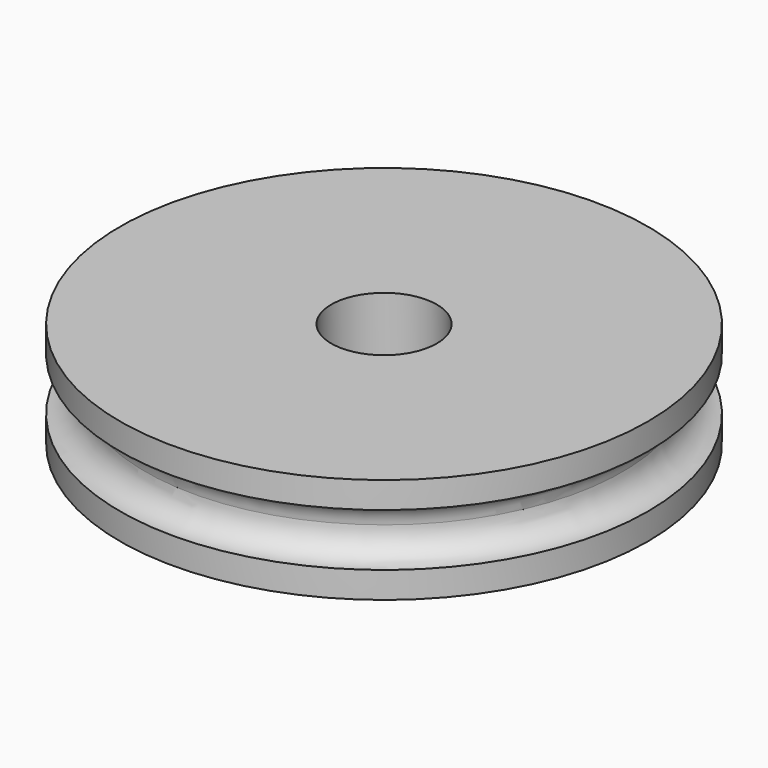
from build123d import *

# Parameters (mm, degrees)
F0_R     = 6.35
F1_DEPTH = 2.54
F2_R     = 0.635
F4_R     = 1.27
F5_DEPTH = 2.54


with BuildPart() as f1:
    # F0 (on Top) → F1 (new body)
    with BuildSketch(Plane.XY):
        Circle(F0_R)
    extrude(amount=F1_DEPTH)

    # F2 (on Front) → F3 (revolve, cut)
    with BuildSketch(Plane.XZ):
        with Locations((-6.370238, 1.27)):
            Circle(F2_R)
    revolve(axis=Axis((0, 0, 2.54), (0, 0, 1)), mode=Mode.SUBTRACT)

    # F4 (on face) → F5 (cut)
    with BuildSketch(Plane.XY.offset(2.54)):
        Circle(F4_R)
    extrude(amount=-F5_DEPTH, mode=Mode.SUBTRACT)


solid = f1.part
